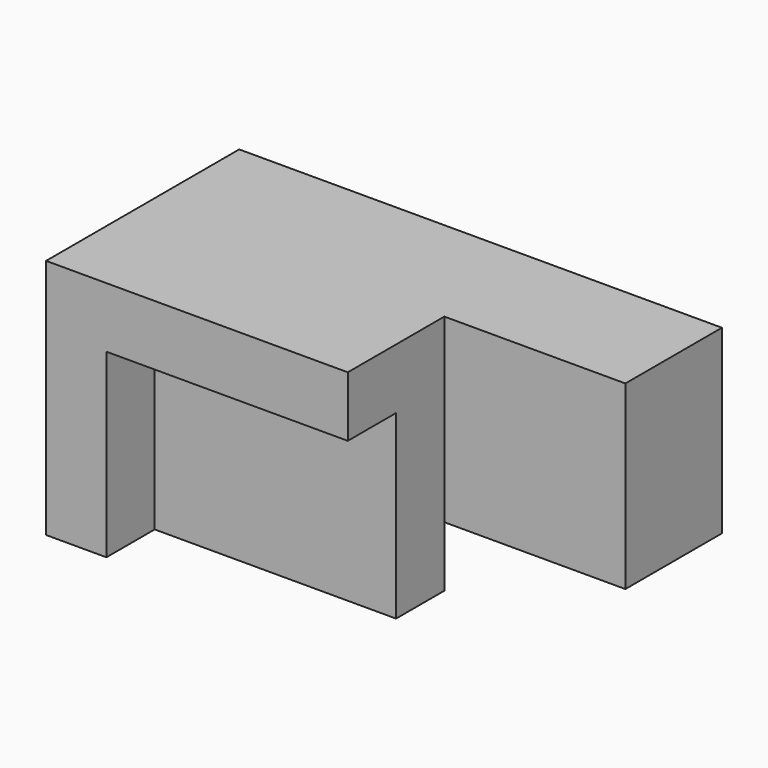
from build123d import *

# Parameters (mm, degrees)
F0_W     = 203.2
F0_H     = 76.2
F1_DEPTH = 50.8
F2_W     = 127
F2_H     = 76.2
F2_H_2   = 25.4
F3_DEPTH = 50.8
F4_W     = 101.6
F4_H     = 76.2
F5_DEPTH = 25.4


with BuildPart() as f1:
    # F0 (on Front) → F1 (new body)
    with BuildSketch(Plane.XZ):
        with Locations((-101.6, 38.1)):
            Rectangle(F0_W, F0_H)
    extrude(amount=F1_DEPTH)

    # F2 (on face) → F3 (join)
    with BuildSketch(Plane.XZ.offset(50.8)):
        with Locations((-139.7, 38.1)):
            Rectangle(F2_W, F2_H)
        with Locations((-139.7, -12.7)):
            Rectangle(F2_W, F2_H_2)
    extrude(amount=F3_DEPTH)

    # F4 (on face) → F5 (cut)
    with BuildSketch(Plane.XZ.offset(101.6)):
        with Locations((-127, 12.7)):
            Rectangle(F4_W, F4_H)
    extrude(amount=-F5_DEPTH, mode=Mode.SUBTRACT)


solid = f1.part
